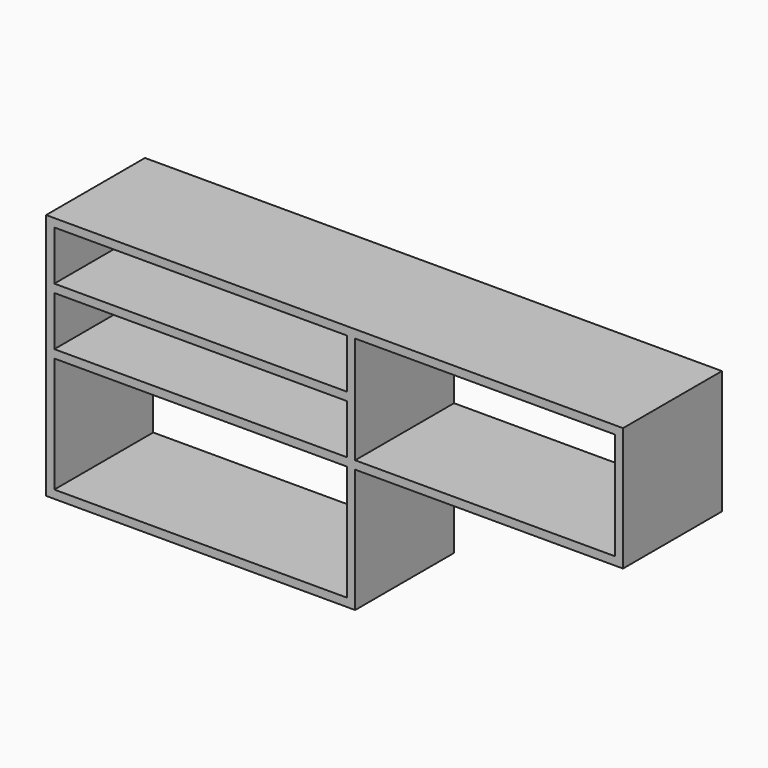
from build123d import *

# Parameters (mm, degrees)
F0_W     = 20
F0_H     = 20
F0_W_2   = 710
F0_H_2   = 260
F1_DEPTH = 300


with BuildPart() as f1:
    # F0 (on Front) → F1 (new body)
    with BuildSketch(Plane.XZ):
        with Locations((-39.431209, 10)):
            Rectangle(F0_W, F0_H)
        with Locations((325.568791, 10)):
            Rectangle(F0_W_2, F0_H)
        Polygon((-49.431209, 580), (-49.431209, 20), (-29.431209, 20), (-29.431209, 300), (-29.431209, 320), (-29.431209, 440), (-29.431209, 460), (-29.431209, 580), align=None)
        with Locations((690.568791, 10)):
            Rectangle(F0_W, F0_H)
        with Locations((-39.431209, 590)):
            Rectangle(F0_W, F0_H)
        Polygon((680.568791, 300), (680.568791, 20), (700.568791, 20), (700.568791, 300), (1330.568791, 300), (1330.568791, 320), (700.568791, 320), (680.568791, 320), align=None)
        Polygon((-29.431209, 600), (-29.431209, 580), (680.568791, 580), (700.568791, 580), (1330.568791, 580), (1330.568791, 600), align=None)
        with Locations((1340.568791, 590)):
            Rectangle(F0_W, F0_H)
        with Locations((1340.568791, 310)):
            Rectangle(F0_W, F0_H)
        with Locations((1340.568791, 450)):
            Rectangle(F0_W, F0_H_2)
        with Locations((325.568791, 450)):
            Rectangle(F0_W_2, F0_H)
        Polygon((700.568791, 580), (680.568791, 580), (680.568791, 460), (680.568791, 440), (680.568791, 320), (700.568791, 320), align=None)
        with Locations((325.568791, 310)):
            Rectangle(F0_W_2, F0_H)
    extrude(amount=F1_DEPTH)


solid = f1.part
